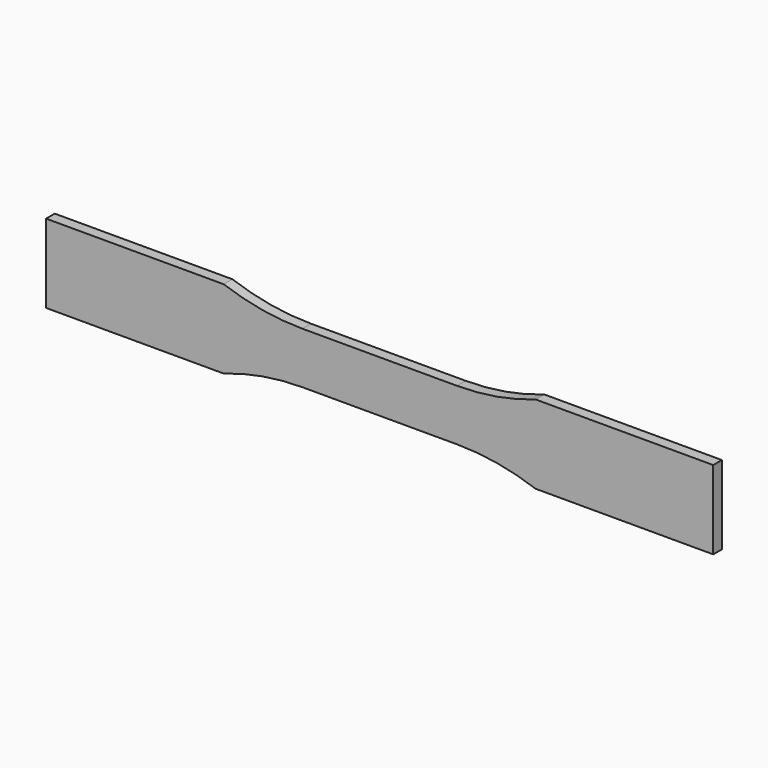
from build123d import *

# Parameters (mm, degrees)
F1_DEPTH = 4


with BuildPart() as f1:
    # F0 (on Front) → F1 (new body)
    with BuildSketch(Plane.XZ):
        with BuildLine():
            Line((28.5, 9.5), (0, 9.5))
            Line((0, 9.5), (-28.5, 9.5))
            ThreePointArc((-28.5, 9.5), (-43.213939, 10.759154), (-57.5, 14.5))
            Line((-57.5, 14.5), (-123, 14.5))
            Line((-123, 14.5), (-123, 0))
            Line((-123, 0), (-123, -14.5))
            Line((-123, -14.5), (-57.5, -14.5))
            ThreePointArc((-57.5, -14.5), (-43.213939, -10.759154), (-28.5, -9.5))
            Line((-28.5, -9.5), (0, -9.5))
            Line((0, -9.5), (28.5, -9.5))
            ThreePointArc((28.5, -9.5), (43.213939, -10.759154), (57.5, -14.5))
            Line((57.5, -14.5), (123, -14.5))
            Line((123, -14.5), (123, 0))
            Line((123, 0), (123, 14.5))
            Line((123, 14.5), (57.5, 14.5))
            ThreePointArc((57.5, 14.5), (43.213939, 10.759154), (28.5, 9.5))
        make_face()
    extrude(amount=F1_DEPTH)


solid = f1.part
